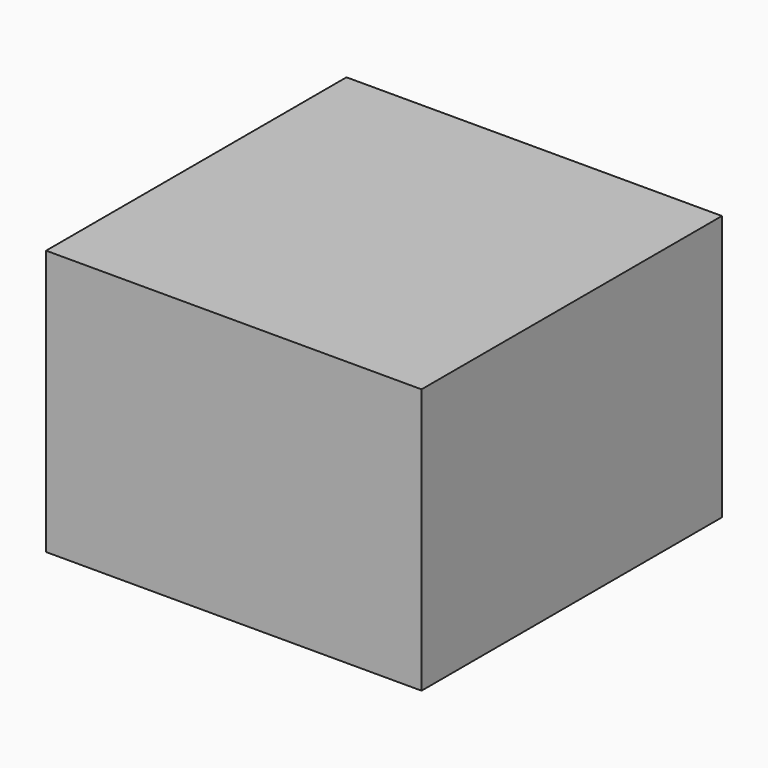
from build123d import *

# Parameters (mm, degrees)
F2_W     = 730.228574
F2_H     = 730.228574
F3_DEPTH = 258


with BuildPart() as f1:
    # F0 (on Front) → F1 (revolve)
    with BuildSketch(Plane.XZ):
        Polygon((-287.7, 0), (-262.5, 0), (-262.5, 18), (-286.75, 18), (-288.75, 16), (-287.7, 16), align=None)
    revolve(axis=Axis((0, 0, 9), (0, 0, 1)))


with BuildPart() as f3:
    # F2 (on Top) → F3 (new body, symmetric)
    with BuildSketch(Plane.XY):
        Rectangle(F2_W, F2_H)
    extrude(amount=F3_DEPTH, both=True)


solid = Compound([f1.part, f3.part])
